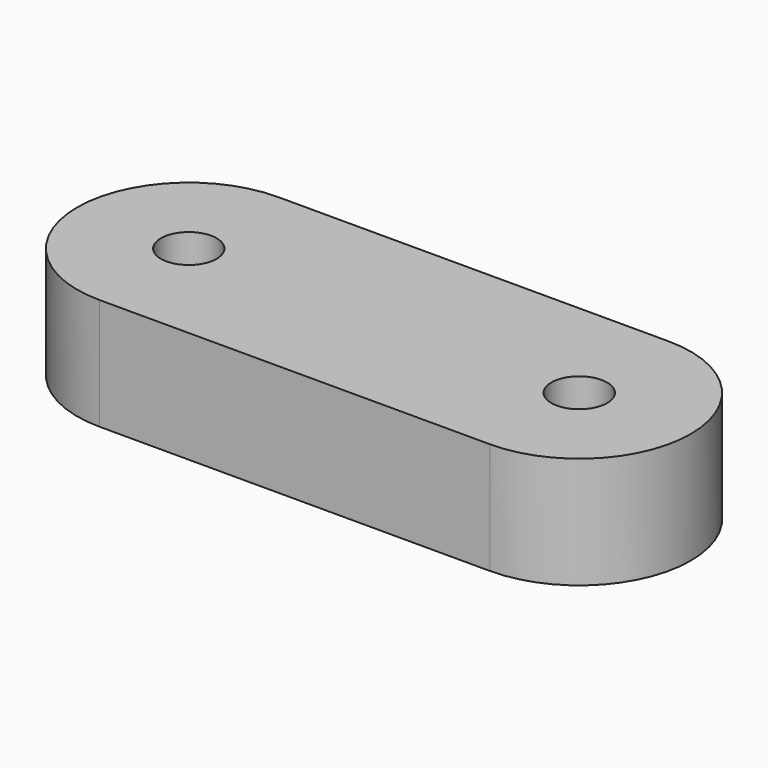
from build123d import *

# Parameters (mm, degrees)
F0_R     = 6.35
F1_DEPTH = 25.4


with BuildPart() as f1:
    # F0 (on Top) → F1 (new body)
    with BuildSketch(Plane.XY):
        with BuildLine():
            ThreePointArc((0, 25.4), (-25.4, 0), (0, -25.4))
            Line((0, -25.4), (88.9, -25.4))
            ThreePointArc((88.9, -25.4), (114.3, 0), (88.9, 25.4))
            Line((88.9, 25.4), (0, 25.4))
        make_face()
        Circle(F0_R, mode=Mode.SUBTRACT)
        with Locations((88.9, 0)):
            Circle(F0_R, mode=Mode.SUBTRACT)
    extrude(amount=F1_DEPTH)


solid = f1.part
